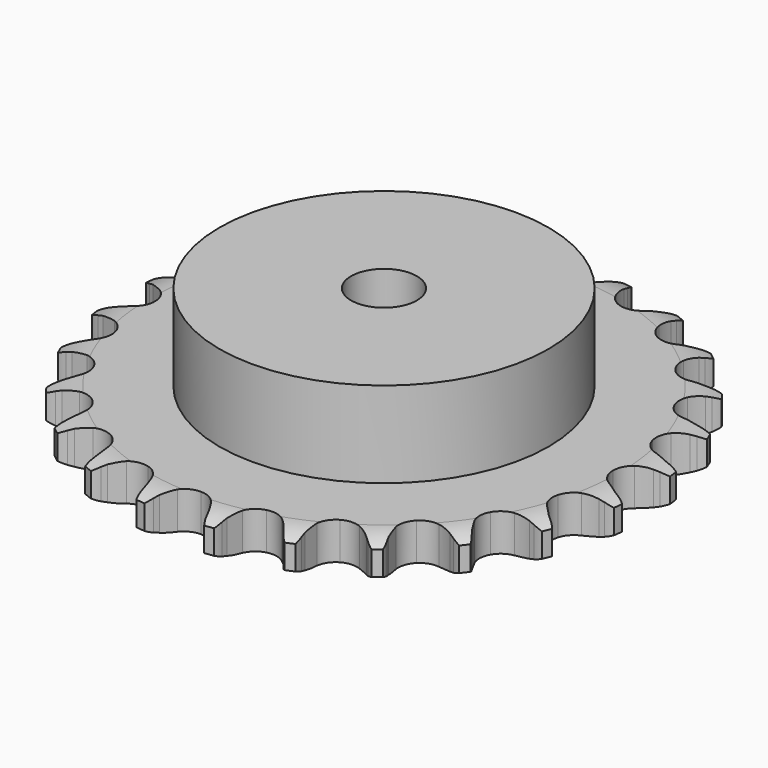
from build123d import *

# Parameters (mm, degrees)
PAD_DEPTH         = 9.1
SKETCH001_R       = 40
PAD001_DEPTH      = 30
SKETCH002_R       = 8
POCKET_DEPTH      = 0.001
POCKET_DEPTH_BACK = -30.001


with BuildPart() as part:
    # Sprocket → Pad (new body)
    with BuildSketch(Plane.XY):
        with BuildLine():
            ThreePointArc((-8.584098, 65.202695), (-7.289998, 63.758844), (-6.364469, 62.055084))
            Line((-6.364469, 62.055084), (-5.871154, 60.823786))
            ThreePointArc((-5.871154, 60.823786), (-5.083491, 59.190791), (-4.080613, 57.680385))
            ThreePointArc((-4.080613, 57.680385), (-2.274912, 56.198485), (0, 55.66805))
            ThreePointArc((0, 55.66805), (2.274912, 56.198485), (4.080613, 57.680385))
            ThreePointArc((4.080613, 57.680385), (5.083491, 59.190791), (5.871154, 60.823786))
            Line((5.871154, 60.823786), (6.364469, 62.055084))
            ThreePointArc((6.364469, 62.055084), (7.289998, 63.758844), (8.584098, 65.202695))
            ThreePointArc((8.584098, 65.202695), (9.460406, 63.473104), (9.913432, 61.587854))
            Line((9.913432, 61.587854), (10.071255, 60.270832))
            ThreePointArc((10.071255, 60.270832), (10.409429, 58.489617), (10.987213, 56.771114))
            ThreePointArc((10.987213, 56.771114), (12.347842, 54.872358), (14.407951, 53.771207))
            ThreePointArc((14.407951, 53.771207), (16.742634, 53.694777), (18.870352, 54.658833))
            Line((18.870352, 54.658833), (21.413454, 57.231699))
            ThreePointArc((21.413454, 57.231699), (21.797776, 57.772472), (22.208643, 58.293362))
            ThreePointArc((22.208643, 58.293362), (23.5436, 59.699524), (25.167301, 60.759239))
            ThreePointArc((25.167301, 60.759239), (25.566099, 58.861777), (25.51575, 56.923514))
            Line((25.51575, 56.923514), (25.327324, 55.610521))
            ThreePointArc((25.327324, 55.610521), (25.192963, 53.802474), (25.306278, 51.992985))
            ThreePointArc((25.306278, 51.992985), (26.129111, 49.806771), (27.834025, 48.209945))
            ThreePointArc((27.834025, 48.209945), (30.069374, 47.531859), (32.374107, 47.912372))
            Line((32.374107, 47.912372), (35.496462, 49.739367))
            ThreePointArc((35.496462, 49.739367), (36.007651, 50.162243), (36.539334, 50.559045))
            ThreePointArc((36.539334, 50.559045), (38.192745, 51.57178), (40.035394, 52.175141))
            ThreePointArc((40.035394, 52.175141), (39.929504, 50.239118), (39.379211, 48.37993))
            Line((39.379211, 48.37993), (38.857379, 47.160445))
            ThreePointArc((38.857379, 47.160445), (38.259639, 45.44878), (37.900762, 43.67162))
            ThreePointArc((37.900762, 43.67162), (38.129724, 41.346935), (39.363255, 39.363255))
            ThreePointArc((39.363255, 39.363255), (41.346935, 38.129724), (43.67162, 37.900762))
            Line((43.67162, 37.900762), (47.160445, 38.857379))
            ThreePointArc((47.160445, 38.857379), (47.763664, 39.13354), (48.37993, 39.379211))
            ThreePointArc((48.37993, 39.379211), (50.239118, 39.929504), (52.175141, 40.035394))
            ThreePointArc((52.175141, 40.035394), (51.57178, 38.192745), (50.559045, 36.539334))
            Line((50.559045, 36.539334), (49.739367, 35.496462))
            ThreePointArc((49.739367, 35.496462), (48.718983, 33.997827), (47.912372, 32.374107))
            ThreePointArc((47.912372, 32.374107), (47.531859, 30.069374), (48.209945, 27.834025))
            ThreePointArc((48.209945, 27.834025), (49.806771, 26.129111), (51.992985, 25.306278))
            Line((51.992985, 25.306278), (55.610521, 25.327324))
            ThreePointArc((55.610521, 25.327324), (56.264662, 25.437951), (56.923514, 25.51575))
            ThreePointArc((56.923514, 25.51575), (58.861777, 25.566099), (60.759239, 25.167301))
            ThreePointArc((60.759239, 25.167301), (59.699524, 23.5436), (58.293362, 22.208643))
            Line((58.293362, 22.208643), (57.231699, 21.413454))
            ThreePointArc((57.231699, 21.413454), (55.858209, 20.229979), (54.658833, 18.870352))
            ThreePointArc((54.658833, 18.870352), (53.694777, 16.742634), (53.771207, 14.407951))
            ThreePointArc((53.771207, 14.407951), (54.872358, 12.347842), (56.771114, 10.987213))
            Line((56.771114, 10.987213), (60.270832, 10.071255))
            ThreePointArc((60.270832, 10.071255), (60.931316, 10.008808), (61.587854, 9.913432))
            ThreePointArc((61.587854, 9.913432), (63.473104, 9.460406), (65.202695, 8.584098))
            ThreePointArc((65.202695, 8.584098), (63.758844, 7.289998), (62.055084, 6.364469))
            Line((62.055084, 6.364469), (60.823786, 5.871154))
            ThreePointArc((60.823786, 5.871154), (59.190791, 5.083491), (57.680385, 4.080613))
            ThreePointArc((57.680385, 4.080613), (56.198485, 2.274912), (55.66805, 0))
            ThreePointArc((55.66805, 0), (56.198485, -2.274912), (57.680385, -4.080613))
            Line((57.680385, -4.080613), (60.823786, -5.871154))
            ThreePointArc((60.823786, -5.871154), (61.445602, -6.102419), (62.055084, -6.364469))
            ThreePointArc((62.055084, -6.364469), (63.758844, -7.289998), (65.202695, -8.584098))
            ThreePointArc((65.202695, -8.584098), (63.473104, -9.460406), (61.587854, -9.913432))
            Line((61.587854, -9.913432), (60.270832, -10.071255))
            ThreePointArc((60.270832, -10.071255), (58.489617, -10.409429), (56.771114, -10.987213))
            ThreePointArc((56.771114, -10.987213), (54.872358, -12.347842), (53.771207, -14.407951))
            ThreePointArc((53.771207, -14.407951), (53.694777, -16.742634), (54.658833, -18.870352))
            Line((54.658833, -18.870352), (57.231699, -21.413454))
            ThreePointArc((57.231699, -21.413454), (57.772472, -21.797776), (58.293362, -22.208643))
            ThreePointArc((58.293362, -22.208643), (59.699524, -23.5436), (60.759239, -25.167301))
            ThreePointArc((60.759239, -25.167301), (58.861777, -25.566099), (56.923514, -25.51575))
            Line((56.923514, -25.51575), (55.610521, -25.327324))
            ThreePointArc((55.610521, -25.327324), (53.802474, -25.192963), (51.992985, -25.306278))
            ThreePointArc((51.992985, -25.306278), (49.806771, -26.129111), (48.209945, -27.834025))
            ThreePointArc((48.209945, -27.834025), (47.531859, -30.069374), (47.912372, -32.374107))
            Line((47.912372, -32.374107), (49.739367, -35.496462))
            ThreePointArc((49.739367, -35.496462), (50.162243, -36.007651), (50.559045, -36.539334))
            ThreePointArc((50.559045, -36.539334), (51.57178, -38.192745), (52.175141, -40.035394))
            ThreePointArc((52.175141, -40.035394), (50.239118, -39.929504), (48.37993, -39.379211))
            Line((48.37993, -39.379211), (47.160445, -38.857379))
            ThreePointArc((47.160445, -38.857379), (45.44878, -38.259639), (43.67162, -37.900762))
            ThreePointArc((43.67162, -37.900762), (41.346935, -38.129724), (39.363255, -39.363255))
            ThreePointArc((39.363255, -39.363255), (38.129724, -41.346935), (37.900762, -43.67162))
            Line((37.900762, -43.67162), (38.857379, -47.160445))
            ThreePointArc((38.857379, -47.160445), (39.13354, -47.763664), (39.379211, -48.37993))
            ThreePointArc((39.379211, -48.37993), (39.929504, -50.239118), (40.035394, -52.175141))
            ThreePointArc((40.035394, -52.175141), (38.192745, -51.57178), (36.539334, -50.559045))
            Line((36.539334, -50.559045), (35.496462, -49.739367))
            ThreePointArc((35.496462, -49.739367), (33.997827, -48.718983), (32.374107, -47.912372))
            ThreePointArc((32.374107, -47.912372), (30.069374, -47.531859), (27.834025, -48.209945))
            ThreePointArc((27.834025, -48.209945), (26.129111, -49.806771), (25.306278, -51.992985))
            Line((25.306278, -51.992985), (25.327324, -55.610521))
            ThreePointArc((25.327324, -55.610521), (25.437951, -56.264662), (25.51575, -56.923514))
            ThreePointArc((25.51575, -56.923514), (25.566099, -58.861777), (25.167301, -60.759239))
            ThreePointArc((25.167301, -60.759239), (23.5436, -59.699524), (22.208643, -58.293362))
            Line((22.208643, -58.293362), (21.413454, -57.231699))
            ThreePointArc((21.413454, -57.231699), (20.229979, -55.858209), (18.870352, -54.658833))
            ThreePointArc((18.870352, -54.658833), (16.742634, -53.694777), (14.407951, -53.771207))
            ThreePointArc((14.407951, -53.771207), (12.347842, -54.872358), (10.987213, -56.771114))
            Line((10.987213, -56.771114), (10.071255, -60.270832))
            ThreePointArc((10.071255, -60.270832), (10.008808, -60.931316), (9.913432, -61.587854))
            ThreePointArc((9.913432, -61.587854), (9.460406, -63.473104), (8.584098, -65.202695))
            ThreePointArc((8.584098, -65.202695), (7.289998, -63.758844), (6.364469, -62.055084))
            Line((6.364469, -62.055084), (5.871154, -60.823786))
            ThreePointArc((5.871154, -60.823786), (5.083491, -59.190791), (4.080613, -57.680385))
            ThreePointArc((4.080613, -57.680385), (2.274912, -56.198485), (0, -55.66805))
            ThreePointArc((0, -55.66805), (-2.274912, -56.198485), (-4.080613, -57.680385))
            Line((-4.080613, -57.680385), (-5.871154, -60.823786))
            ThreePointArc((-5.871154, -60.823786), (-6.102419, -61.445602), (-6.364469, -62.055084))
            ThreePointArc((-6.364469, -62.055084), (-7.289998, -63.758844), (-8.584098, -65.202695))
            ThreePointArc((-8.584098, -65.202695), (-9.460406, -63.473104), (-9.913432, -61.587854))
            Line((-9.913432, -61.587854), (-10.071255, -60.270832))
            ThreePointArc((-10.071255, -60.270832), (-10.409429, -58.489617), (-10.987213, -56.771114))
            ThreePointArc((-10.987213, -56.771114), (-12.347842, -54.872358), (-14.407951, -53.771207))
            ThreePointArc((-14.407951, -53.771207), (-16.742634, -53.694777), (-18.870352, -54.658833))
            Line((-18.870352, -54.658833), (-21.413454, -57.231699))
            ThreePointArc((-21.413454, -57.231699), (-21.797776, -57.772472), (-22.208643, -58.293362))
            ThreePointArc((-22.208643, -58.293362), (-23.5436, -59.699524), (-25.167301, -60.759239))
            ThreePointArc((-25.167301, -60.759239), (-25.566099, -58.861777), (-25.51575, -56.923514))
            Line((-25.51575, -56.923514), (-25.327324, -55.610521))
            ThreePointArc((-25.327324, -55.610521), (-25.192963, -53.802474), (-25.306278, -51.992985))
            ThreePointArc((-25.306278, -51.992985), (-26.129111, -49.806771), (-27.834025, -48.209945))
            ThreePointArc((-27.834025, -48.209945), (-30.069374, -47.531859), (-32.374107, -47.912372))
            Line((-32.374107, -47.912372), (-35.496462, -49.739367))
            ThreePointArc((-35.496462, -49.739367), (-36.007651, -50.162243), (-36.539334, -50.559045))
            ThreePointArc((-36.539334, -50.559045), (-38.192745, -51.57178), (-40.035394, -52.175141))
            ThreePointArc((-40.035394, -52.175141), (-39.929504, -50.239118), (-39.379211, -48.37993))
            Line((-39.379211, -48.37993), (-38.857379, -47.160445))
            ThreePointArc((-38.857379, -47.160445), (-38.259639, -45.44878), (-37.900762, -43.67162))
            ThreePointArc((-37.900762, -43.67162), (-38.129724, -41.346935), (-39.363255, -39.363255))
            ThreePointArc((-39.363255, -39.363255), (-41.346935, -38.129724), (-43.67162, -37.900762))
            Line((-43.67162, -37.900762), (-47.160445, -38.857379))
            ThreePointArc((-47.160445, -38.857379), (-47.763664, -39.13354), (-48.37993, -39.379211))
            ThreePointArc((-48.37993, -39.379211), (-50.239118, -39.929504), (-52.175141, -40.035394))
            ThreePointArc((-52.175141, -40.035394), (-51.57178, -38.192745), (-50.559045, -36.539334))
            Line((-50.559045, -36.539334), (-49.739367, -35.496462))
            ThreePointArc((-49.739367, -35.496462), (-48.718983, -33.997827), (-47.912372, -32.374107))
            ThreePointArc((-47.912372, -32.374107), (-47.531859, -30.069374), (-48.209945, -27.834025))
            ThreePointArc((-48.209945, -27.834025), (-49.806771, -26.129111), (-51.992985, -25.306278))
            Line((-51.992985, -25.306278), (-55.610521, -25.327324))
            ThreePointArc((-55.610521, -25.327324), (-56.264662, -25.437951), (-56.923514, -25.51575))
            ThreePointArc((-56.923514, -25.51575), (-58.861777, -25.566099), (-60.759239, -25.167301))
            ThreePointArc((-60.759239, -25.167301), (-59.699524, -23.5436), (-58.293362, -22.208643))
            Line((-58.293362, -22.208643), (-57.231699, -21.413454))
            ThreePointArc((-57.231699, -21.413454), (-55.858209, -20.229979), (-54.658833, -18.870352))
            ThreePointArc((-54.658833, -18.870352), (-53.694777, -16.742634), (-53.771207, -14.407951))
            ThreePointArc((-53.771207, -14.407951), (-54.872358, -12.347842), (-56.771114, -10.987213))
            Line((-56.771114, -10.987213), (-60.270832, -10.071255))
            ThreePointArc((-60.270832, -10.071255), (-60.931316, -10.008808), (-61.587854, -9.913432))
            ThreePointArc((-61.587854, -9.913432), (-63.473104, -9.460406), (-65.202695, -8.584098))
            ThreePointArc((-65.202695, -8.584098), (-63.758844, -7.289998), (-62.055084, -6.364469))
            Line((-62.055084, -6.364469), (-60.823786, -5.871154))
            ThreePointArc((-60.823786, -5.871154), (-59.190791, -5.083491), (-57.680385, -4.080613))
            ThreePointArc((-57.680385, -4.080613), (-56.198485, -2.274912), (-55.66805, 0))
            ThreePointArc((-55.66805, 0), (-56.198485, 2.274912), (-57.680385, 4.080613))
            Line((-57.680385, 4.080613), (-60.823786, 5.871154))
            ThreePointArc((-60.823786, 5.871154), (-61.445602, 6.102419), (-62.055084, 6.364469))
            ThreePointArc((-62.055084, 6.364469), (-63.758844, 7.289998), (-65.202695, 8.584098))
            ThreePointArc((-65.202695, 8.584098), (-63.473104, 9.460406), (-61.587854, 9.913432))
            Line((-61.587854, 9.913432), (-60.270832, 10.071255))
            ThreePointArc((-60.270832, 10.071255), (-58.489617, 10.409429), (-56.771114, 10.987213))
            ThreePointArc((-56.771114, 10.987213), (-54.872358, 12.347842), (-53.771207, 14.407951))
            ThreePointArc((-53.771207, 14.407951), (-53.694777, 16.742634), (-54.658833, 18.870352))
            Line((-54.658833, 18.870352), (-57.231699, 21.413454))
            ThreePointArc((-57.231699, 21.413454), (-57.772472, 21.797776), (-58.293362, 22.208643))
            ThreePointArc((-58.293362, 22.208643), (-59.699524, 23.5436), (-60.759239, 25.167301))
            ThreePointArc((-60.759239, 25.167301), (-58.861777, 25.566099), (-56.923514, 25.51575))
            Line((-56.923514, 25.51575), (-55.610521, 25.327324))
            ThreePointArc((-55.610521, 25.327324), (-53.802474, 25.192963), (-51.992985, 25.306278))
            ThreePointArc((-51.992985, 25.306278), (-49.806771, 26.129111), (-48.209945, 27.834025))
            ThreePointArc((-48.209945, 27.834025), (-47.531859, 30.069374), (-47.912372, 32.374107))
            Line((-47.912372, 32.374107), (-49.739367, 35.496462))
            ThreePointArc((-49.739367, 35.496462), (-50.162243, 36.007651), (-50.559045, 36.539334))
            ThreePointArc((-50.559045, 36.539334), (-51.57178, 38.192745), (-52.175141, 40.035394))
            ThreePointArc((-52.175141, 40.035394), (-50.239118, 39.929504), (-48.37993, 39.379211))
            Line((-48.37993, 39.379211), (-47.160445, 38.857379))
            ThreePointArc((-47.160445, 38.857379), (-45.44878, 38.259639), (-43.67162, 37.900762))
            ThreePointArc((-43.67162, 37.900762), (-41.346935, 38.129724), (-39.363255, 39.363255))
            ThreePointArc((-39.363255, 39.363255), (-38.129724, 41.346935), (-37.900762, 43.67162))
            Line((-37.900762, 43.67162), (-38.857379, 47.160445))
            ThreePointArc((-38.857379, 47.160445), (-39.13354, 47.763664), (-39.379211, 48.37993))
            ThreePointArc((-39.379211, 48.37993), (-39.929504, 50.239118), (-40.035394, 52.175141))
            ThreePointArc((-40.035394, 52.175141), (-38.192745, 51.57178), (-36.539334, 50.559045))
            Line((-36.539334, 50.559045), (-35.496462, 49.739367))
            ThreePointArc((-35.496462, 49.739367), (-33.997827, 48.718983), (-32.374107, 47.912372))
            ThreePointArc((-32.374107, 47.912372), (-30.069374, 47.531859), (-27.834025, 48.209945))
            ThreePointArc((-27.834025, 48.209945), (-26.129111, 49.806771), (-25.306278, 51.992985))
            Line((-25.306278, 51.992985), (-25.327324, 55.610521))
            ThreePointArc((-25.327324, 55.610521), (-25.437951, 56.264662), (-25.51575, 56.923514))
            ThreePointArc((-25.51575, 56.923514), (-25.566099, 58.861777), (-25.167301, 60.759239))
            ThreePointArc((-25.167301, 60.759239), (-23.5436, 59.699524), (-22.208643, 58.293362))
            Line((-22.208643, 58.293362), (-21.413454, 57.231699))
            ThreePointArc((-21.413454, 57.231699), (-20.229979, 55.858209), (-18.870352, 54.658833))
            ThreePointArc((-18.870352, 54.658833), (-16.742634, 53.694777), (-14.407951, 53.771207))
            ThreePointArc((-14.407951, 53.771207), (-12.347842, 54.872358), (-10.987213, 56.771114))
            Line((-10.987213, 56.771114), (-10.071255, 60.270832))
            ThreePointArc((-10.071255, 60.270832), (-10.008808, 60.931316), (-9.913432, 61.587854))
            ThreePointArc((-9.913432, 61.587854), (-9.460406, 63.473104), (-8.584098, 65.202695))
        make_face()
    extrude(amount=PAD_DEPTH)

    # Sketch → Groove (revolve, cut)
    with BuildSketch(Plane.XZ):
        with BuildLine():
            Line((57.175762, 0), (64.15, 0))
            Line((71.124238, 0), (64.15, 0))
            Line((71.124238, 9.1), (71.124238, 0))
            Line((64.15, 9.1), (71.124238, 9.1))
            Line((57.175762, 9.1), (64.15, 9.1))
            ThreePointArc((64.15, 7.5), (60.75347, 8.694871), (57.175762, 9.1))
            Line((64.15, 1.6), (64.15, 7.5))
            ThreePointArc((57.175762, 0), (60.75347, 0.405129), (64.15, 1.6))
        make_face()
    revolve(axis=Axis((0, 0, 0), (0, 0, 1)), mode=Mode.SUBTRACT)

    # Sketch001 → Pad001 (join)
    with BuildSketch(Plane.XY):
        Circle(SKETCH001_R)
    extrude(amount=PAD001_DEPTH)

    # Sketch002 → Pocket (cut, two sides)
    with BuildSketch(Plane.XY) as pocket_sk:
        Circle(SKETCH002_R)
    extrude(amount=-POCKET_DEPTH, mode=Mode.SUBTRACT)
    extrude(pocket_sk.sketch, amount=-POCKET_DEPTH_BACK, mode=Mode.SUBTRACT)


solid = part.part
